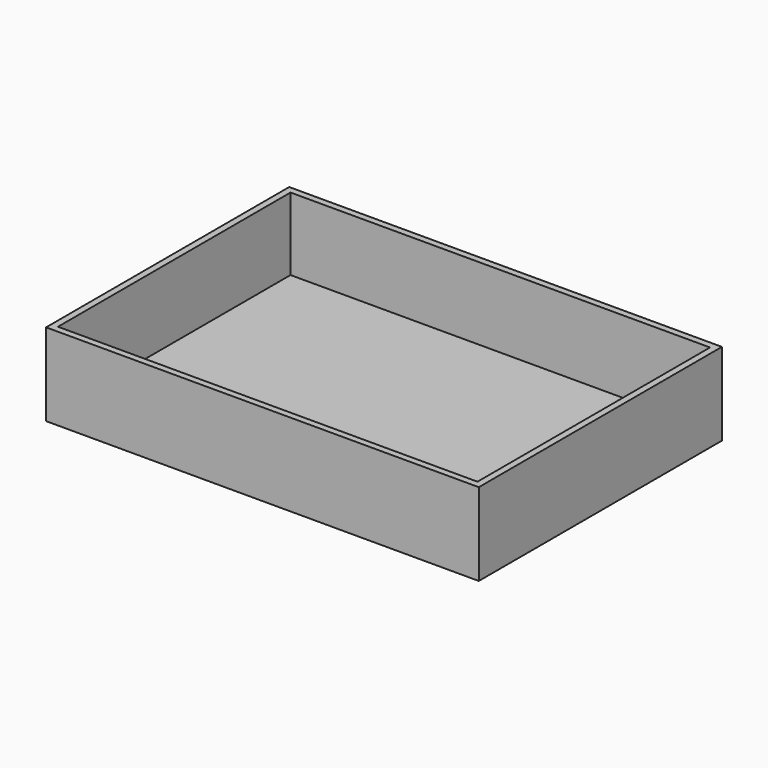
from build123d import *

# Parameters (mm, degrees)
F1_DEPTH = 552
F2_W     = 12
F2_H     = 150
F3_DEPTH = 762


with BuildPart() as f1:
    # F0 (on Front) → F1 (new body)
    with BuildSketch(Plane.XZ):
        Polygon((381, 135), (381, 3), (-381, 3), (-381, 135), (-393, 135), (-393, -15), (-381, -15), (-381, -3), (381, -3), (381, -15), (393, -15), (393, 135), align=None)
    extrude(amount=F1_DEPTH)

    # F2 (on face) → F3 (join, through all)
    with BuildSketch(Plane(origin=(381, 0, 0), x_dir=(0, -1, 0), z_dir=(-1, 0, 0))):
        with Locations((6, 60)):
            Rectangle(F2_W, F2_H)
        with Locations((546, 60)):
            Rectangle(F2_W, F2_H)
    extrude(amount=F3_DEPTH)


solid = f1.part
